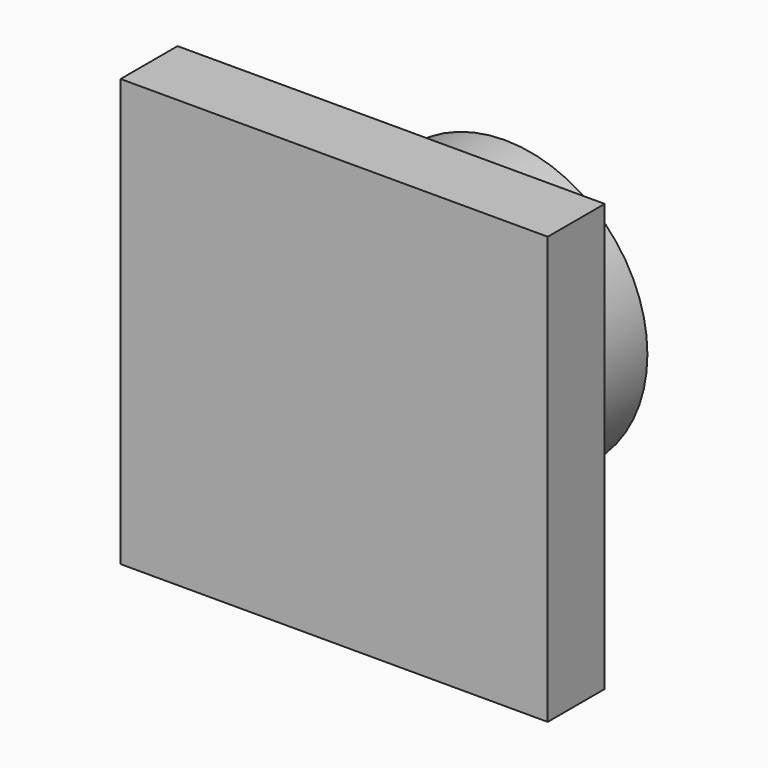
from build123d import *

# Parameters (mm, degrees)
SKETCH_W      = 60
SKETCH_H      = 60
PAD_DEPTH     = 10
SKETCH001_R   = 20
SKETCH001_R_2 = 15
PAD001_DEPTH  = 20


with BuildPart() as part:
    # Sketch → Pad (new body)
    with BuildSketch(Plane.XZ):
        Rectangle(SKETCH_W, SKETCH_H)
    extrude(amount=-PAD_DEPTH)

    # Sketch001 (on Face6 of Pad) → Pad001 (join)
    with BuildSketch(Plane(origin=(0, 10, 0), x_dir=(1, 0, 0), z_dir=(0, 1, 0))):
        Circle(SKETCH001_R)
        Circle(SKETCH001_R_2, mode=Mode.SUBTRACT)
    extrude(amount=PAD001_DEPTH)


solid = part.part
